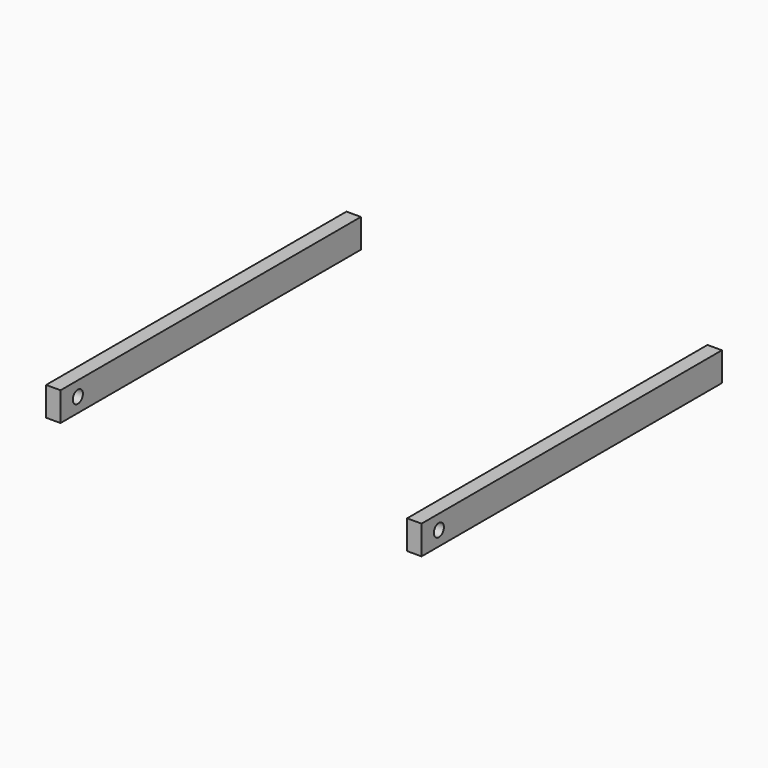
from build123d import *

# Parameters (mm, degrees)
F0_W     = 25.4
F0_H     = 660.4
F1_DEPTH = 50.8
F2_R     = 11.1125
F3_DEPTH = 25.401
F4_R     = 11.1125
F5_DEPTH = 660.401


with BuildPart() as f1:
    # F0 (on Top) → F1 (new body)
    with BuildSketch(Plane.XY):
        with Locations((-317.5, 330.2)):
            Rectangle(F0_W, F0_H)
        with Locations((317.5, 330.2)):
            Rectangle(F0_W, F0_H)
    extrude(amount=F1_DEPTH)

    # F2 (on face) → F3 (cut, through all)
    with BuildSketch(Plane(origin=(304.8, 0, 0), x_dir=(0, -1, 0), z_dir=(-1, 0, 0))):
        with Locations((-38.1, 25.4)):
            Circle(F2_R)
    extrude(amount=-F3_DEPTH, mode=Mode.SUBTRACT)

    # F4 (on face) → F5 (cut, through all)
    with BuildSketch(Plane(origin=(-330.2, 0, 0), x_dir=(0, -1, 0), z_dir=(-1, 0, 0))):
        with Locations((-38.1, 25.4)):
            Circle(F4_R)
    extrude(amount=-F5_DEPTH, mode=Mode.SUBTRACT)


solid = f1.part
